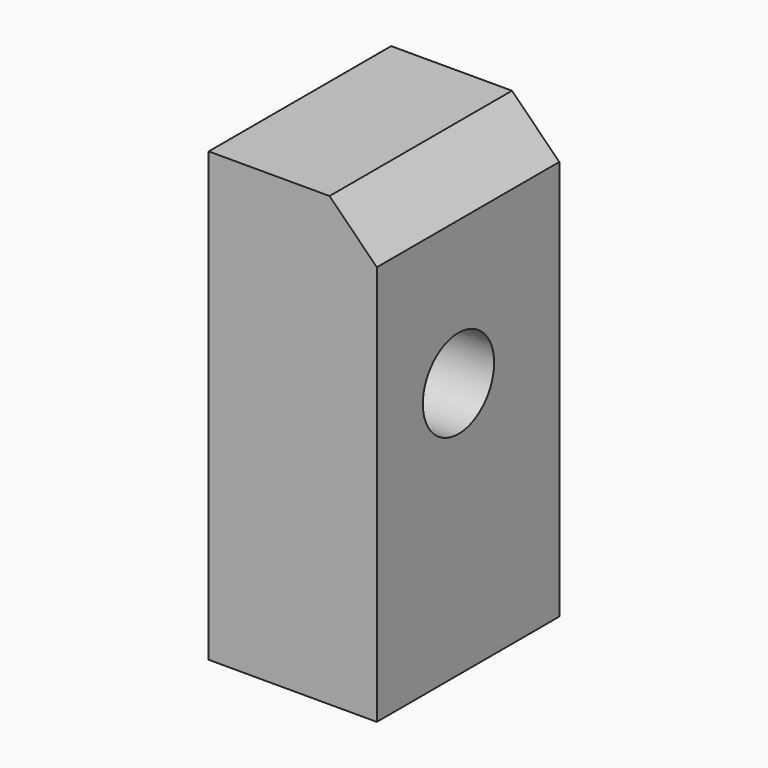
from build123d import *

# Parameters (mm, degrees)
F0_W     = 18.0536359549
F0_H     = 24.487555027
F1_DEPTH = 48.0590760708
F2_R     = 4.7851705696
F3_DEPTH = 59.6192404628
F4_SIZE  = 5.08
F5_T     = -2.54


with BuildPart() as f1:
    # F0 (on Top) → F1 (new body)
    with BuildSketch(Plane.XY):
        with Locations((-3.9722770452, 28.8042277098)):
            Rectangle(F0_W, F0_H)
    extrude(amount=F1_DEPTH)

    # F2 (on face) → F3 (cut)
    with BuildSketch(Plane.YZ.offset(5.0545409322)):
        with Locations((27.5146439672, 27.5505185127)):
            Circle(F2_R)
    extrude(amount=-F3_DEPTH, mode=Mode.SUBTRACT)

    # F4
    f4_edges = [f1.edges().sort_by_distance(p)[0] for p in [
        (5.054541, 28.804228, 48.059076),
    ]]
    chamfer(f4_edges, length=F4_SIZE)

    # F5
    f5_openings = [f1.faces().sort_by_distance(p)[0] for p in [
        (-12.999095, 40.508625, 24.029538),
    ]]
    offset(amount=F5_T, openings=f5_openings)


solid = f1.part
